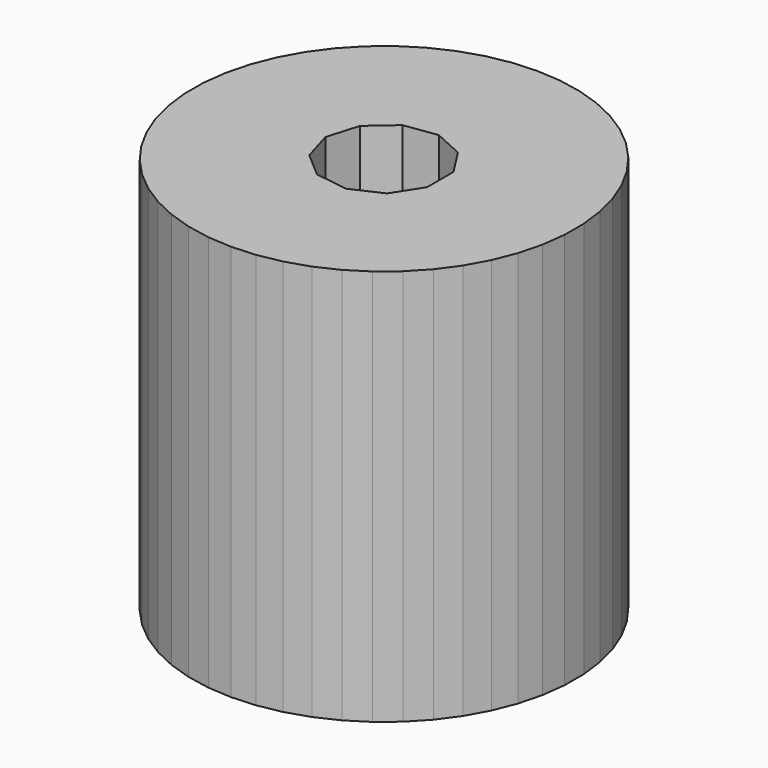
from build123d import *

# Parameters (mm, degrees)
F1_DEPTH = 25.4
F2_DEPTH = 25.4


with BuildPart() as f1:
    # F0 (on Top) → F1 (new body)
    with BuildSketch(Plane.XY):
        Polygon((20.612943, -13.130079), (22.096039, -10.443057), (23.230667, -7.591343), (23.998934, -4.619908), (24.388723, -1.575615), (24.393888, 1.493527), (24.014346, 4.539115), (23.256084, 7.513118), (22.131059, 10.368635), (20.657015, 13.060633), (18.857197, 15.546656), (16.759989, 17.7875), (14.398467, 19.747823), (11.809872, 21.396712), (9.035029, 22.708162), (6.117697, 23.661491), (3.103886, 24.241664), (0.041125, 24.439531), (-3.022285, 24.251973), (-6.038031, 23.681946), (-8.958554, 22.738441), (-11.737796, 21.436337), (-14.331925, 19.796169), (-16.700032, 17.843804), (-18.804768, 15.610031), (-20.612943, 13.130079), (-22.096039, 10.443057), (-23.230667, 7.591343), (-23.998934, 4.619908), (-24.388723, 1.575615), (-24.393888, -1.493527), (-24.014346, -4.539115), (-23.256084, -7.513118), (-22.131059, -10.368635), (-20.657015, -13.060633), (-18.857197, -15.546656), (-16.759989, -17.7875), (-14.398467, -19.747823), (-11.809872, -21.396712), (-9.035029, -22.708162), (-6.117697, -23.661491), (-3.103886, -24.241664), (-0.041125, -24.439531), (3.022285, -24.251973), (6.038031, -23.681946), (8.958554, -22.738441), (11.737796, -21.436337), (14.331925, -19.796169), (16.700032, -17.843804), (18.804768, -15.610031), align=None)
        Polygon((4.921291, 5.679472), (7.210608, 2.117225), (7.210608, -2.117225), (4.921291, -5.679472), (1.069499, -7.438527), (-3.121852, -6.835901), (-6.322036, -4.062926), (-7.515019, 0), (-6.322036, 4.062926), (-3.121852, 6.835901), (1.069499, 7.438527), align=None, mode=Mode.SUBTRACT)
    extrude(amount=F1_DEPTH)

    # F1_face (on face) → F2 (join)
    with BuildSketch(Plane.XY.offset(25.4)):
        Polygon((-23.998934, 4.619908), (-24.388723, 1.575615), (-24.393888, -1.493527), (-24.014346, -4.539115), (-23.256084, -7.513118), (-22.131059, -10.368635), (-20.657015, -13.060633), (-18.857197, -15.546656), (-16.759989, -17.7875), (-14.398467, -19.747823), (-11.809872, -21.396712), (-9.035029, -22.708162), (-6.117697, -23.661491), (-3.103886, -24.241664), (-0.041125, -24.439531), (3.022285, -24.251973), (6.038031, -23.681946), (8.958554, -22.738441), (11.737796, -21.436337), (14.331925, -19.796169), (16.700032, -17.843804), (18.804768, -15.610031), (20.612943, -13.130079), (22.096039, -10.443057), (23.230667, -7.591343), (23.998934, -4.619908), (24.388723, -1.575615), (24.393888, 1.493527), (24.014346, 4.539115), (23.256084, 7.513118), (22.131059, 10.368635), (20.657015, 13.060633), (18.857197, 15.546656), (16.759989, 17.7875), (14.398467, 19.747823), (11.809872, 21.396712), (9.035029, 22.708162), (6.117697, 23.661491), (3.103886, 24.241664), (0.041125, 24.439531), (-3.022285, 24.251973), (-6.038031, 23.681946), (-8.958554, 22.738441), (-11.737796, 21.436337), (-14.331925, 19.796169), (-16.700032, 17.843804), (-18.804768, 15.610031), (-20.612943, 13.130079), (-22.096039, 10.443057), (-23.230667, 7.591343), align=None)
        Polygon((1.069499, 7.438527), (4.921291, 5.679472), (7.210608, 2.117225), (7.210608, -2.117225), (4.921291, -5.679472), (1.069499, -7.438527), (-3.121852, -6.835901), (-6.322036, -4.062926), (-7.515019, 0), (-6.322036, 4.062926), (-3.121852, 6.835901), align=None, mode=Mode.SUBTRACT)
    extrude(amount=F2_DEPTH)


solid = f1.part
